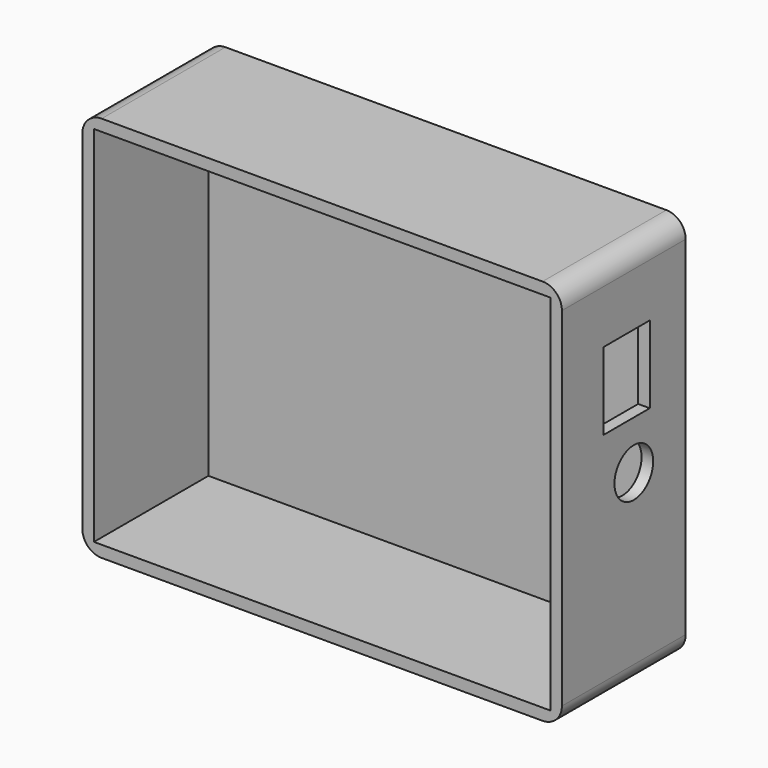
from build123d import *

# Parameters (mm, degrees)
F0_W     = 78.74
F0_H     = 63.5
F1_DEPTH = 25.4
F2_T     = -1.905
F4_D     = 7.9375
F4_DEPTH = 12.7
F5_W     = 9.525
F5_H     = 12.7
F6_DEPTH = 25.4
F7_R     = 3.175


with BuildPart() as f1:
    # F0 (on Front) → F1 (new body)
    with BuildSketch(Plane.XZ):
        with Locations((-39.37, 31.75)):
            Rectangle(F0_W, F0_H)
    extrude(amount=F1_DEPTH)

    # F2
    f2_openings = [f1.faces().sort_by_distance(p)[0] for p in [
        (-39.37, -25.4, 31.75),
    ]]
    offset(amount=F2_T, openings=f2_openings)

    # F4
    with Locations(Plane.YZ):
        with Locations((-10.64123, 30.9198)):
            Hole(F4_D / 2, depth=F4_DEPTH)

    # F5 (on Right) → F6 (cut)
    with BuildSketch(Plane.YZ):
        with Locations((-12.128341, 45.233511)):
            Rectangle(F5_W, F5_H)
    extrude(amount=-F6_DEPTH, mode=Mode.SUBTRACT)

    # F7
    f7_edges = [f1.edges().sort_by_distance(p)[0] for p in [
        (-78.74, -12.7, 63.5),
        (0, -12.7, 63.5),
        (0, -12.7, 0),
        (-78.74, -12.7, 0),
    ]]
    fillet(f7_edges, radius=F7_R)


solid = f1.part
